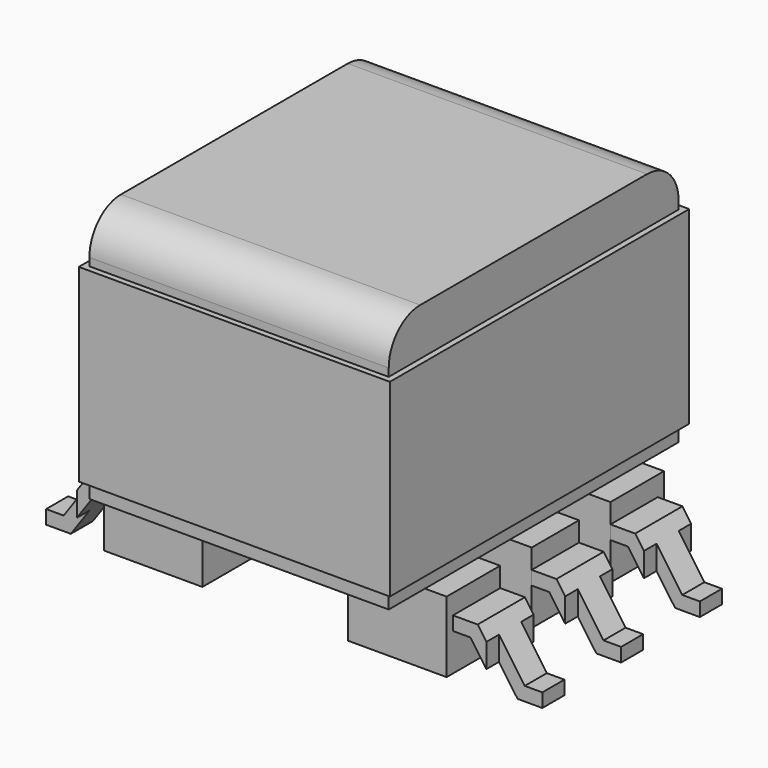
from build123d import *

# Parameters (mm, degrees)
F0_W      = 7.6
F0_H      = 9.2
F1_DEPTH  = 6.4
F2_R      = 1
F4_W      = 7.9
F4_H      = 9.5
F5_DEPTH  = 4.8
F6_W      = 2.5
F6_H      = 1.7
F6_H_2    = 1.5
F7_DEPTH  = 1.8
F8_R      = 3.5
F9_DEPTH  = 1.9
F11_DEPTH = 3.5
F12_W     = 1.95
F12_H     = 0.25
F12_H_2   = 1
F13_DEPTH = 2.101
F14_W     = 1.1
F14_H     = 1.8
F14_H_2   = 1.9
F15_DEPTH = 25


with BuildPart() as f1:
    # F0 (on Top) → F1 (new body)
    with BuildSketch(Plane.XY):
        Rectangle(F0_W, F0_H)
    extrude(amount=F1_DEPTH)

    # F2
    f2_edges = [f1.edges().sort_by_distance(p)[0] for p in [
        (0, 4.6, 6.4),
        (0, -4.6, 6.4),
    ]]
    fillet(f2_edges, radius=F2_R)

    # F6 (on face) → F7 (join)
    with BuildSketch(Plane(origin=(0, 0, 0), x_dir=(1, 0, 0), z_dir=(0, 0, -1))):
        with Locations((3.1, -2.6)):
            Rectangle(F6_W, F6_H)
        with Locations((3.1, 0)):
            Rectangle(F6_W, F6_H_2)
        with Locations((3.1, 2.6)):
            Rectangle(F6_W, F6_H)
        with Locations((-3.1, 2.6)):
            Rectangle(F6_W, F6_H)
        with Locations((-3.1, 0)):
            Rectangle(F6_W, F6_H_2)
        with Locations((-3.1, -2.6)):
            Rectangle(F6_W, F6_H)
    extrude(amount=F7_DEPTH)


with BuildPart() as f5:
    # F4 (on offset) → F5 (new body)
    with BuildSketch(Plane.XY.offset(0.4)):
        Rectangle(F4_W, F4_H)
    extrude(amount=F5_DEPTH)


with BuildPart() as f9:
    # F8 (on Right) → F9 (new body, symmetric)
    with BuildSketch(Plane.YZ):
        with Locations((0, 1.7)):
            Circle(F8_R)
    extrude(amount=F9_DEPTH, both=True)


with BuildPart() as f11:
    # F10 (on Front) → F11 (new body, symmetric)
    with BuildSketch(Plane.XZ):
        Polygon((4.97847, -0.5), (4.35, -0.5), (4.35, -0.85), (4.796271, -0.85), (5.67153, -2.1), (6.3, -2.1), (6.3, -1.75), (5.853729, -1.75), align=None)
        Polygon((-4.796271, -0.85), (-4.35, -0.85), (-4.35, -0.5), (-4.97847, -0.5), (-5.853729, -1.75), (-6.3, -1.75), (-6.3, -2.1), (-5.67153, -2.1), align=None)
    extrude(amount=F11_DEPTH, both=True)

    # F12 (on Top) → F13 (cut, through all)
    with BuildSketch(Plane.XY):
        with Locations((-5.325, -3.375)):
            Rectangle(F12_W, F12_H)
        with Locations((-5.325, -1.25)):
            Rectangle(F12_W, F12_H_2)
        with Locations((-5.325, 3.375)):
            Rectangle(F12_W, F12_H)
        with Locations((-5.325, 1.25)):
            Rectangle(F12_W, F12_H_2)
        with Locations((5.325, -3.375)):
            Rectangle(F12_W, F12_H)
        with Locations((5.325, 3.375)):
            Rectangle(F12_W, F12_H)
        with Locations((5.325, 1.25)):
            Rectangle(F12_W, F12_H_2)
        with Locations((5.325, -1.25)):
            Rectangle(F12_W, F12_H_2)
    extrude(amount=-F13_DEPTH, mode=Mode.SUBTRACT)

    # F14 (on Top) → F15 (cut)
    with BuildSketch(Plane.XY):
        with Locations((-5.75, -1.25)):
            Rectangle(F14_W, F14_H)
        with Locations((-5.75, 1.25)):
            Rectangle(F14_W, F14_H)
        with Locations((-5.75, -3.8)):
            Rectangle(F14_W, F14_H_2)
        with Locations((-5.75, 3.8)):
            Rectangle(F14_W, F14_H_2)
        with Locations((5.75, -1.25)):
            Rectangle(F14_W, F14_H)
        with Locations((5.75, 1.25)):
            Rectangle(F14_W, F14_H)
        with Locations((5.75, 3.8)):
            Rectangle(F14_W, F14_H_2)
        with Locations((5.75, -3.8)):
            Rectangle(F14_W, F14_H_2)
    extrude(amount=-F15_DEPTH, mode=Mode.SUBTRACT)


solid = Compound([f1.part, f5.part, f9.part, f11.part])
